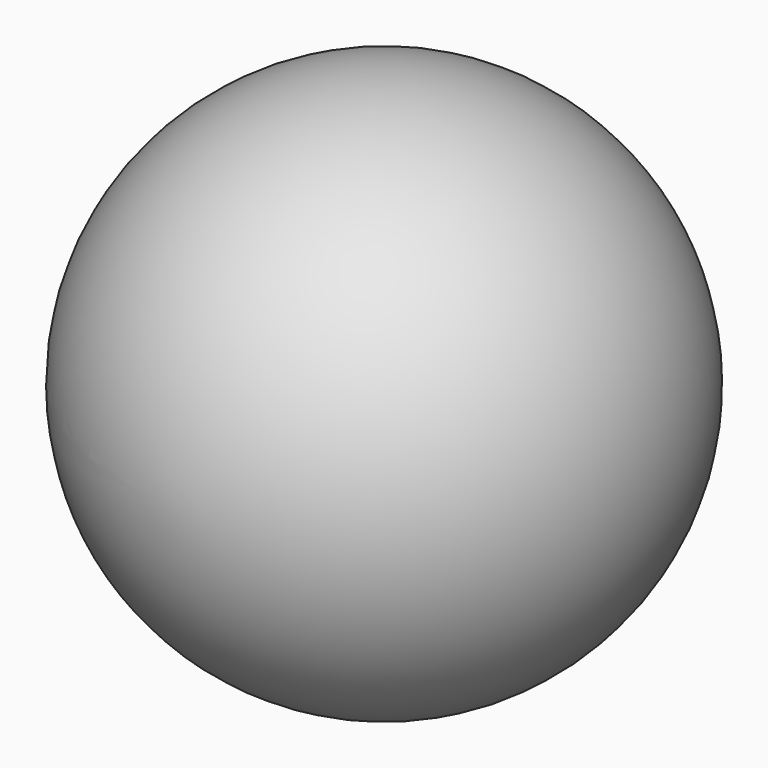
from build123d import *

# Parameters (mm, degrees)
F3_R     = 3.175
F4_DEPTH = 50.8


with BuildPart() as f2:
    # F0 (on Top) → F2 (revolve)
    with BuildSketch(Plane.XY):
        with BuildLine():
            Line((0, -9.525), (0, 9.525))
            ThreePointArc((0, 9.525), (-9.525, 0), (0, -9.525))
        make_face()
    revolve(axis=Axis((0, 0, 0), (0, -1, 0)))


with BuildPart() as f4:
    # F3 (on Top) → F4 (new body)
    with BuildSketch(Plane.XY):
        Circle(F3_R)
    extrude(amount=-F4_DEPTH)


with BuildPart() as f2_1:
    add(f2.part)

    # F5: cut F4
    add(f4.part, mode=Mode.SUBTRACT)


solid = f2_1.part
